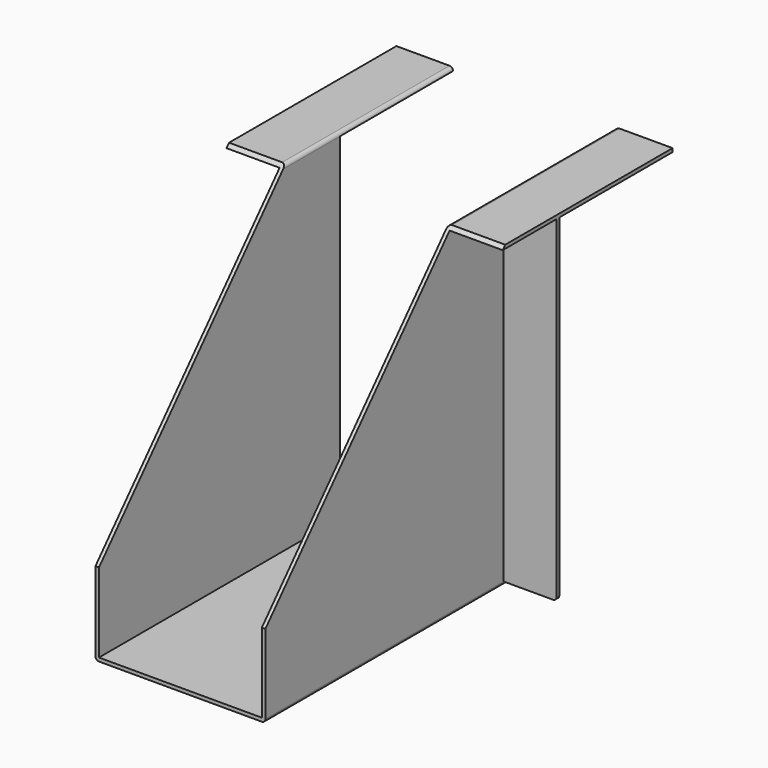
from build123d import *

# Parameters (mm, degrees)
F1_DEPTH      = 125
F2_W          = 45.333487
F2_H          = 99.635656
F3_DEPTH      = 100
F3_DEPTH_BACK = 50
F5_DEPTH      = 1


with BuildPart() as f1:
    # F0 (on Front) → F1 (new body)
    with BuildSketch(Plane.XZ):
        with BuildLine():
            ThreePointArc((0, 1), (0.292893, 0.292893), (1, 0))
            Line((1, 0), (47, 0))
            ThreePointArc((47, 0), (47.707107, 0.292893), (48, 1))
            Line((48, 1), (48, 96))
            Line((48, 96), (63, 96))
            Line((63, 96), (63, 97))
            Line((63, 97), (48, 97))
            ThreePointArc((48, 97), (47.292893, 96.707107), (47, 96))
            Line((47, 96), (47, 1))
            Line((47, 1), (1, 1))
            Line((1, 1), (1, 96))
            ThreePointArc((1, 96), (0.707107, 96.707107), (0, 97))
            Line((0, 97), (-15, 97))
            Line((-15, 97), (-15, 96))
            Line((-15, 96), (0, 96))
            Line((0, 96), (0, 1))
        make_face()
    extrude(amount=F1_DEPTH)

    # F2 (on face) → F3 (cut, two sides)
    with BuildSketch(Plane.YZ.offset(63)) as f3_sk:
        with Locations((-17.320754, 46.182172)):
            Rectangle(F2_W, F2_H)
        Polygon((-139.87067, 100.481688), (-139.87067, 6.786287), (-55.961391, 100.481688), align=None)
    extrude(amount=-F3_DEPTH, mode=Mode.SUBTRACT)
    extrude(f3_sk.sketch, amount=-F3_DEPTH_BACK, mode=Mode.SUBTRACT)

    # F4 (on face) → F5 (join)
    with BuildSketch(Plane(origin=(0, -39.987498, 0), x_dir=(-1, 0, 0), z_dir=(0, 1, 0))):
        with BuildLine():
            Line((-47, 1.063345), (-47, 96))
            Line((-47, 96), (-63, 96))
            Line((-63, 96), (-63, 2.063345))
            ThreePointArc((-63, 2.063345), (-62.707107, 1.356238), (-62, 1.063345))
            Line((-62, 1.063345), (-47, 1.063345))
        make_face()
        with BuildLine():
            Line((15, 2.063345), (15, 96))
            Line((15, 96), (-1, 96))
            Line((-1, 96), (-1, 1.063345))
            Line((-1, 1.063345), (14, 1.063345))
            ThreePointArc((14, 1.063345), (14.707107, 1.356238), (15, 2.063345))
        make_face()
    extrude(amount=-F5_DEPTH)


solid = f1.part
